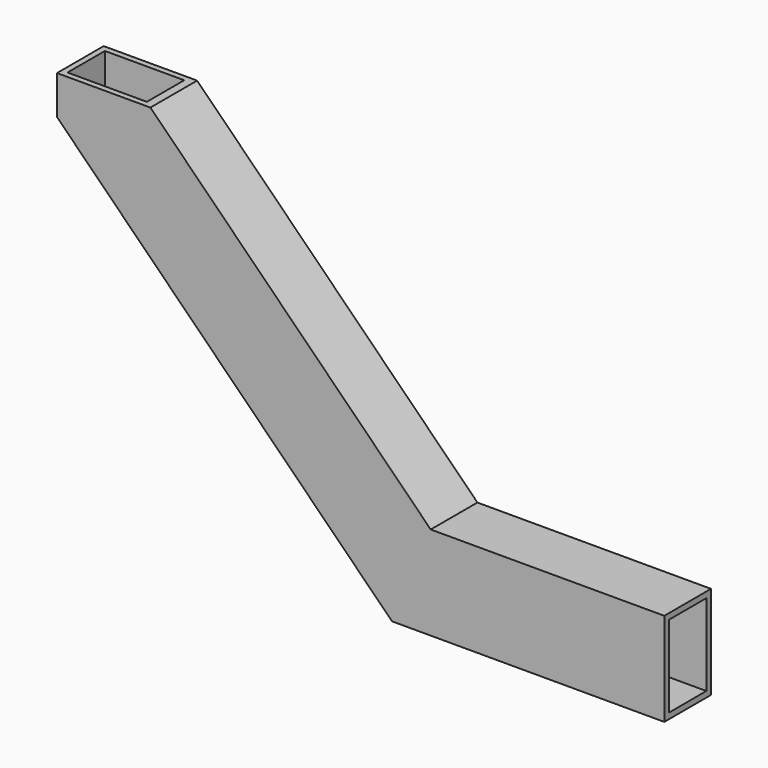
from build123d import *

# Parameters (mm, degrees)
F1_DEPTH = 31.75
F2_T     = -3.175


with BuildPart() as f1:
    # F0 (on Front) → F1 (new body)
    with BuildSketch(Plane.XZ):
        Polygon((50.8, 0), (0, 0), (0, -21.0420489686), (182.1579510314, -203.2), (330.2, -203.2), (330.2, -152.4), (203.2, -152.4), align=None)
    extrude(amount=F1_DEPTH)

    # F2
    f2_openings = [f1.faces().sort_by_distance(p)[0] for p in [
        (25.4, -15.875, 0),
        (330.2, -15.875, -177.8),
    ]]
    offset(amount=F2_T, openings=f2_openings, kind=Kind.INTERSECTION)


solid = f1.part
